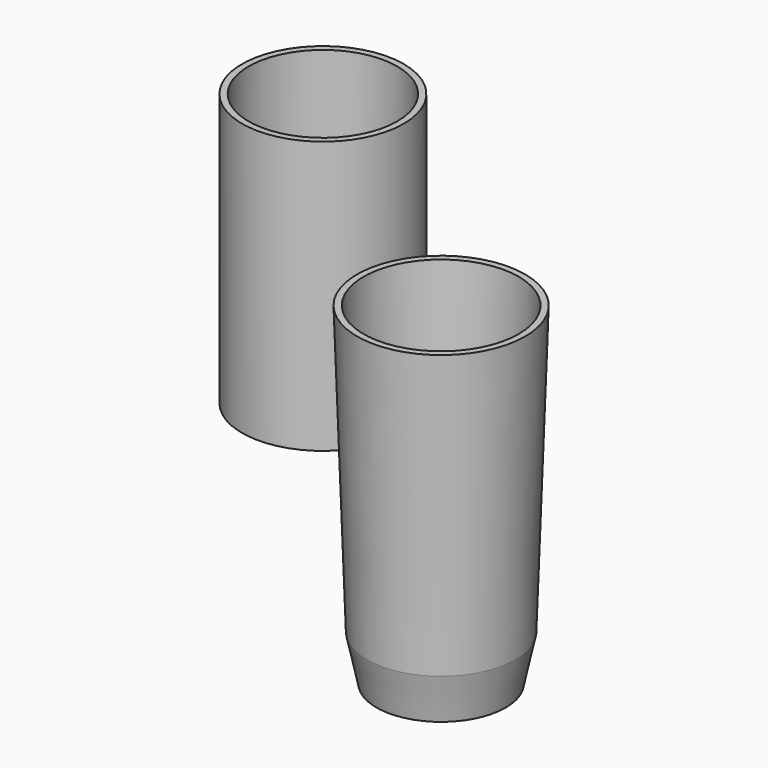
from build123d import *

# Parameters (mm, degrees)
F0_R      = 10
F2_R      = 11.5
F4_R      = 11.5
F6_R      = 13
F8_T      = -1
F9_R      = 12.5
F10_DEPTH = 42.1
F11_T     = -1


with BuildPart() as f3:
    # F0 (on Top) → F3 section 0
    with BuildSketch(Plane.XY):
        Circle(F0_R)
    # F2 (on offset) → F3 section 1
    with BuildSketch(Plane.XY.offset(7)):
        Circle(F2_R)
    loft()

    # F4 (on face) → F7 section 0
    with BuildSketch(Plane.XY.offset(7)):
        Circle(F4_R)
    # F6 (on offset) → F7 section 1
    with BuildSketch(Plane.XY.offset(51.5)):
        Circle(F6_R)
    loft()

    # F8
    f8_openings = [f3.faces().sort_by_distance(p)[0] for p in [
        (0, 0, 51.5),
    ]]
    offset(amount=F8_T, openings=f8_openings, kind=Kind.INTERSECTION)


with BuildPart() as f10:
    # F9 (on Top) → F10 (new body)
    with BuildSketch(Plane.XY):
        with Locations((-56.9764077663, 48.3712740242)):
            Circle(F9_R)
    extrude(amount=F10_DEPTH)

    # F11
    f11_openings = [f10.faces().sort_by_distance(p)[0] for p in [
        (-56.976408, 48.371274, 42.1),
    ]]
    offset(amount=F11_T, openings=f11_openings)


solid = Compound([f3.part, f10.part])
